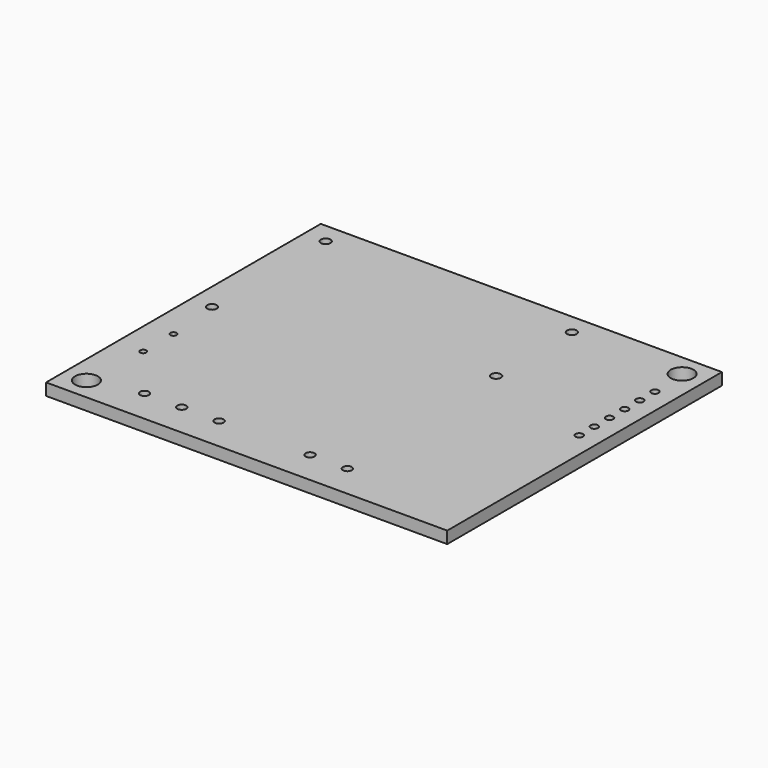
from build123d import *

# Parameters (mm, degrees)
F0_W     = 53.8
F0_H     = 46.05
F0_R     = 1.525
F0_R_2   = 0.6
F0_R_3   = 0.41
F0_R_4   = 0.65
F0_R_5   = 0.5
F1_DEPTH = 1.6


with BuildPart() as f1:
    # F0 (on Top) → F1 (new body)
    with BuildSketch(Plane.XY):
        Rectangle(F0_W, F0_H)
        with Locations((-23.88, -20.035)):
            Circle(F0_R, mode=Mode.SUBTRACT)
        with Locations((-17.29, -18.535)):
            Circle(F0_R_2, mode=Mode.SUBTRACT)
        with Locations((-12.29, -18.535)):
            Circle(F0_R_2, mode=Mode.SUBTRACT)
        with Locations((-7.29, -18.535)):
            Circle(F0_R_2, mode=Mode.SUBTRACT)
        with Locations((-23.34, -11.195)):
            Circle(F0_R_3, mode=Mode.SUBTRACT)
        with Locations((-23.34, -6.115)):
            Circle(F0_R_3, mode=Mode.SUBTRACT)
        with Locations((4.95, -18.585)):
            Circle(F0_R_2, mode=Mode.SUBTRACT)
        with Locations((9.95, -18.585)):
            Circle(F0_R_2, mode=Mode.SUBTRACT)
        with Locations((-24.03, 1.205)):
            Circle(F0_R_4, mode=Mode.SUBTRACT)
        with Locations((-24.03, 20.255)):
            Circle(F0_R_4, mode=Mode.SUBTRACT)
        with Locations((8.99, 7.555)):
            Circle(F0_R_4, mode=Mode.SUBTRACT)
        with Locations((24.2, 2.475)):
            Circle(F0_R_5, mode=Mode.SUBTRACT)
        with Locations((24.2, 5.015)):
            Circle(F0_R_5, mode=Mode.SUBTRACT)
        with Locations((24.2, 7.555)):
            Circle(F0_R_5, mode=Mode.SUBTRACT)
        with Locations((24.2, 10.095)):
            Circle(F0_R_5, mode=Mode.SUBTRACT)
        with Locations((8.99, 20.255)):
            Circle(F0_R_4, mode=Mode.SUBTRACT)
        with Locations((24.2, 12.635)):
            Circle(F0_R_5, mode=Mode.SUBTRACT)
        with Locations((24.2, 15.175)):
            Circle(F0_R_5, mode=Mode.SUBTRACT)
        with Locations((23.91, 20.085)):
            Circle(F0_R, mode=Mode.SUBTRACT)
    extrude(amount=-F1_DEPTH)


solid = f1.part
